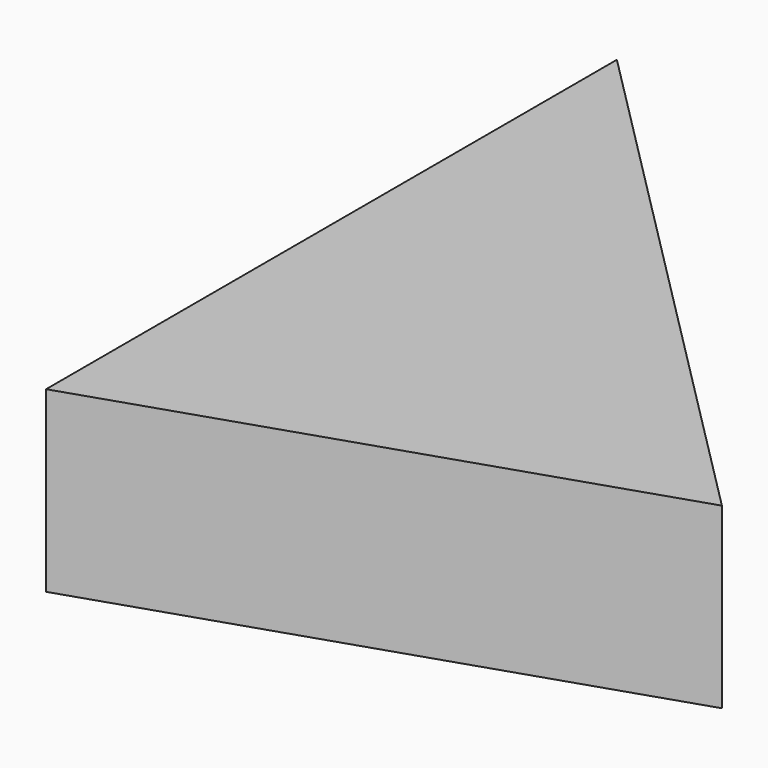
from build123d import *

# Parameters (mm, degrees)
PAD_DEPTH = 0.015


with BuildPart() as part:
    # Sketch → Pad (new body, symmetric)
    with BuildSketch(Plane.XY):
        Polygon((-0.03, 0.070139), (-0.03, -0.049861), (0.06, -0.020279), align=None)
    extrude(amount=PAD_DEPTH, both=True)


solid = part.part
